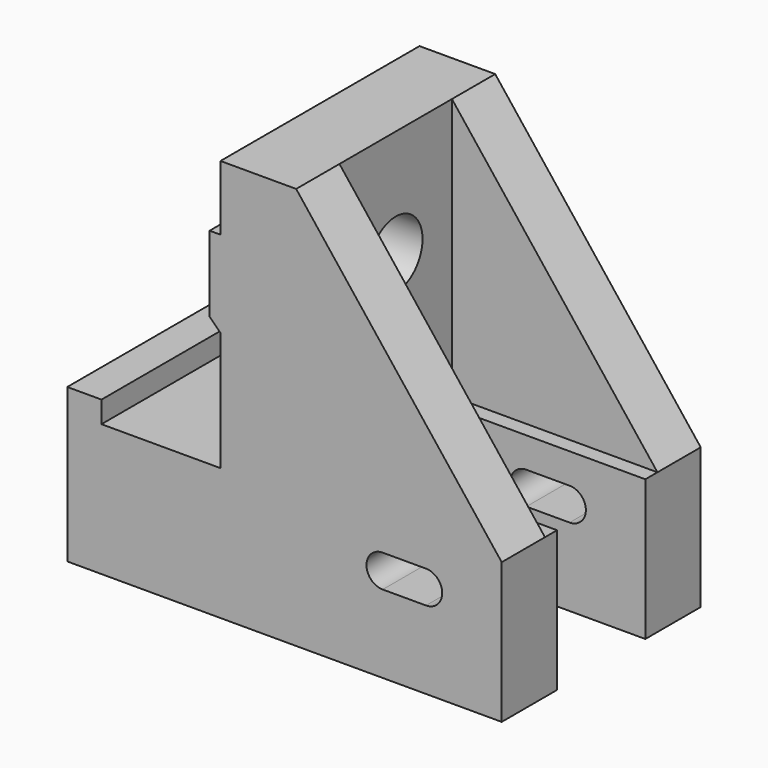
from build123d import *

# Parameters (mm, degrees)
F1_DEPTH = 23
F2_W     = 10.2
F2_H     = 13
F3_DEPTH = 19
F4_R     = 3.1
F5_DEPTH = 8
F7_DEPTH = 1
F8_R     = 1.55
F9_DEPTH = 21.162


with BuildPart() as f1:
    # F0 (on Front) → F1 (new body)
    with BuildSketch(Plane.XZ):
        Polygon((0, 14.2), (0, 0), (40.162, 0), (40.162, 13), (21.162, 37.2), (14.162, 37.2), (14.162, 31.2), (13.162, 31.2), (13.162, 24.2), (14.162, 23.2), (14.162, 12.2), (3.162, 12.2), (3.162, 14.2), align=None)
        with BuildLine():
            ThreePointArc((33.162, 10.2), (34.662, 8.7), (33.162, 7.2))
            Line((33.162, 7.2), (29.162, 7.2))
            ThreePointArc((29.162, 7.2), (27.662, 8.7), (29.162, 10.2))
            Line((29.162, 10.2), (33.162, 10.2))
        make_face(mode=Mode.SUBTRACT)
    extrude(amount=F1_DEPTH)

    # F2 (on face) → F3 (cut)
    with BuildSketch(Plane.YZ.offset(40.162)):
        Polygon((-18, 13), (-16.6, 13), (-6.4, 13), (-5, 13), (-5, 37.2), (-18, 37.2), align=None)
        with Locations((-11.5, 6.5)):
            Rectangle(F2_W, F2_H)
    extrude(amount=-F3_DEPTH, mode=Mode.SUBTRACT)

    # F4 (on face) → F5 (cut, through all)
    with BuildSketch(Plane.YZ.offset(21.162)):
        with Locations((-11.5, 27.183)):
            Circle(F4_R)
    extrude(amount=-F5_DEPTH, mode=Mode.SUBTRACT)

    # F6 (on face) → F7 (cut, through all)
    with BuildSketch(Plane(origin=(13.162, 0, 0), x_dir=(0, -1, 0), z_dir=(-1, 0, 0))):
        with BuildLine():
            Line((15.5000005274, 31.2), (7.5000005274, 31.2))
            Line((7.5000005274, 31.2), (7.5000005274, 24.2))
            Line((7.5000005274, 24.2), (10.6563703419, 24.2))
            ThreePointArc((10.6563703419, 24.2), (9.0276274613, 25.3128732583), (8.4, 27.183))
            ThreePointArc((8.4, 27.183), (13.3701267417, 29.6553725387), (12.3436296581, 24.2))
            Line((12.3436296581, 24.2), (15.5000005274, 24.2))
            Line((15.5000005274, 24.2), (15.5000005274, 31.2))
        make_face()
        with BuildLine():
            Line((10.6563703419, 24.2), (7.5000005274, 24.2))
            Line((7.5000005274, 24.2), (7.5000005274, 23.2))
            Line((7.5000005274, 23.2), (15.5000005274, 23.2))
            Line((15.5000005274, 23.2), (15.5000005274, 24.2))
            Line((15.5000005274, 24.2), (12.3436296581, 24.2))
            ThreePointArc((12.3436296581, 24.2), (13.3701267417, 29.6553725387), (8.4, 27.183))
            ThreePointArc((8.4, 27.183), (9.0276274613, 25.3128732583), (10.6563703419, 24.2))
        make_face()
    extrude(amount=-F7_DEPTH, mode=Mode.SUBTRACT)

    # F8 (on face) → F9 (cut, through all)
    with BuildSketch(Plane.YZ.offset(21.162)):
        with Locations((-11.5, 8.7000000016)):
            Circle(F8_R)
    extrude(amount=-F9_DEPTH, mode=Mode.SUBTRACT)


solid = f1.part
